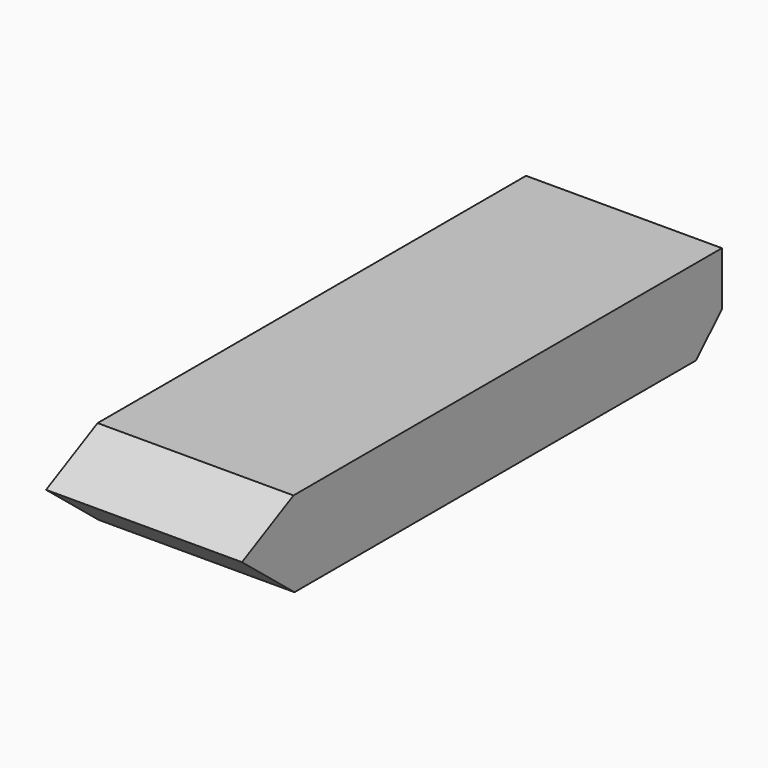
from build123d import *

# Parameters (mm, degrees)
F1_DEPTH      = 400
F1_DEPTH_BACK = 400


with BuildPart() as f1:
    # F0 (on Right) → F1 (new body, two sides)
    with BuildSketch(Plane.YZ) as f1_sk:
        Polygon((-957, -175), (1092, -175), (1225, -45), (1225, 175), (-962.085426, 175), (-1225, 42), align=None)
    extrude(amount=F1_DEPTH)
    extrude(f1_sk.sketch, amount=-F1_DEPTH_BACK)


solid = f1.part
